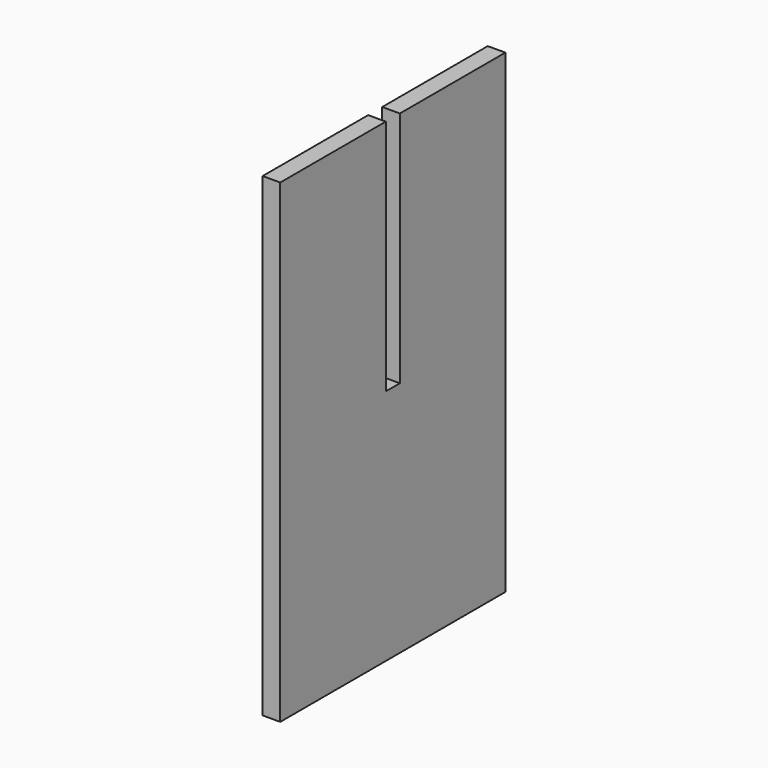
from build123d import *

# Parameters (mm, degrees)
F0_W     = 50.8
F0_H     = 85.725
F1_DEPTH = 3.175
F2_W     = 1.5875
F2_H     = 42.8752
F3_DEPTH = 3.176


with BuildPart() as f1:
    # F0 (on Right) → F1 (new body)
    with BuildSketch(Plane.YZ):
        with Locations((-100.65788, -100.875556)):
            Rectangle(F0_W, F0_H)
    extrude(amount=F1_DEPTH)

    # F2 (on face) → F3 (cut, through all)
    with BuildSketch(Plane.YZ.offset(3.175)):
        with Locations((-101.45163, -79.450656)):
            Rectangle(F2_W, F2_H)
        with Locations((-99.86413, -79.450656)):
            Rectangle(F2_W, F2_H)
    extrude(amount=-F3_DEPTH, mode=Mode.SUBTRACT)


solid = f1.part
